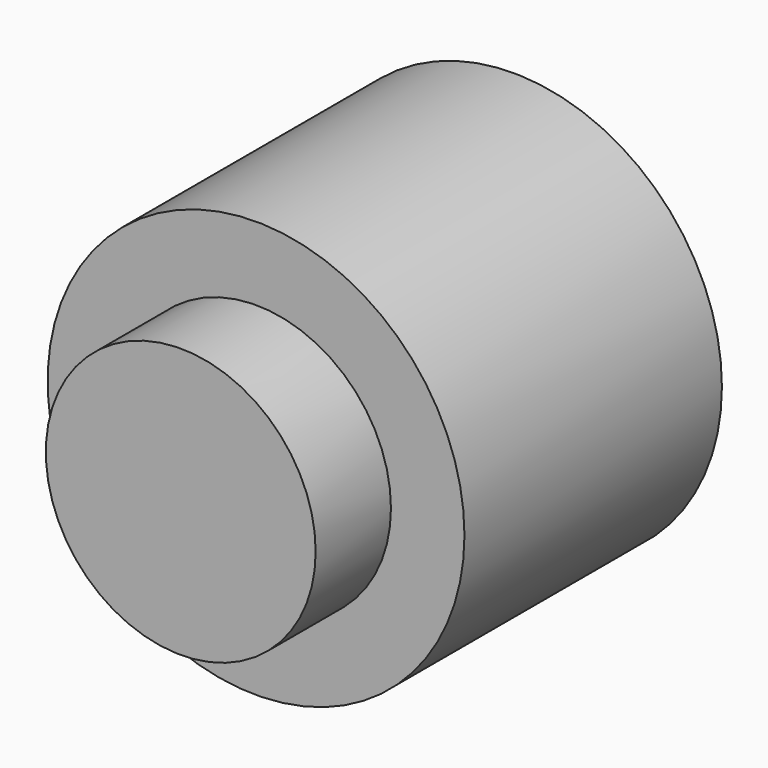
from build123d import *


with BuildPart() as f1:
    # F0 (on Top) → F1 (revolve)
    with BuildSketch(Plane.XY):
        with BuildLine():
            Line((44.87592, 38.313419), (27.752706, 38.313419))
            ThreePointArc((27.752706, 38.313419), (19.624127, 57.937545), (0, 66.066125))
            Line((0, 66.066125), (0, -51.24541))
            Line((0, -51.24541), (29.048713, -51.24541))
            Line((29.048713, -51.24541), (29.048713, -30.97886))
            Line((29.048713, -30.97886), (44.87592, -30.97886))
            Line((44.87592, -30.97886), (44.87592, 38.313419))
        make_face()
    revolve(axis=Axis((0, -0.579044, 0), (0, -1, 0)))


solid = f1.part
